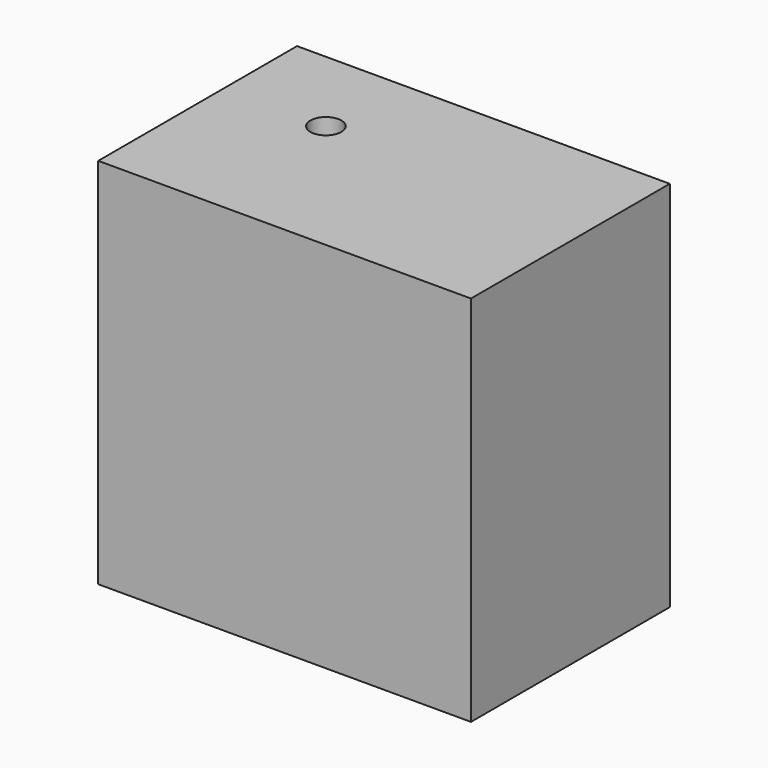
from build123d import *

# Parameters (mm, degrees)
F0_W     = 76.2
F0_H     = 50.8
F1_DEPTH = 76.2
F3_D     = 6.35
F3_DEPTH = 12.7
F3_TIP   = 1.9077324654


with BuildPart() as f1:
    # F0 (on Top) → F1 (new body)
    with BuildSketch(Plane.XY):
        Rectangle(F0_W, F0_H)
    extrude(amount=F1_DEPTH)

    # F3
    with Locations(Plane.XY.offset(76.2)):
        with Locations((-17.1995405108, 6.6453265026)):
            Hole(F3_D / 2, depth=F3_DEPTH)
            with Locations((0, 0, -(F3_DEPTH + F3_TIP / 2))):  # 118° drill point
                Cone(0, F3_D / 2, F3_TIP, mode=Mode.SUBTRACT)


solid = f1.part
